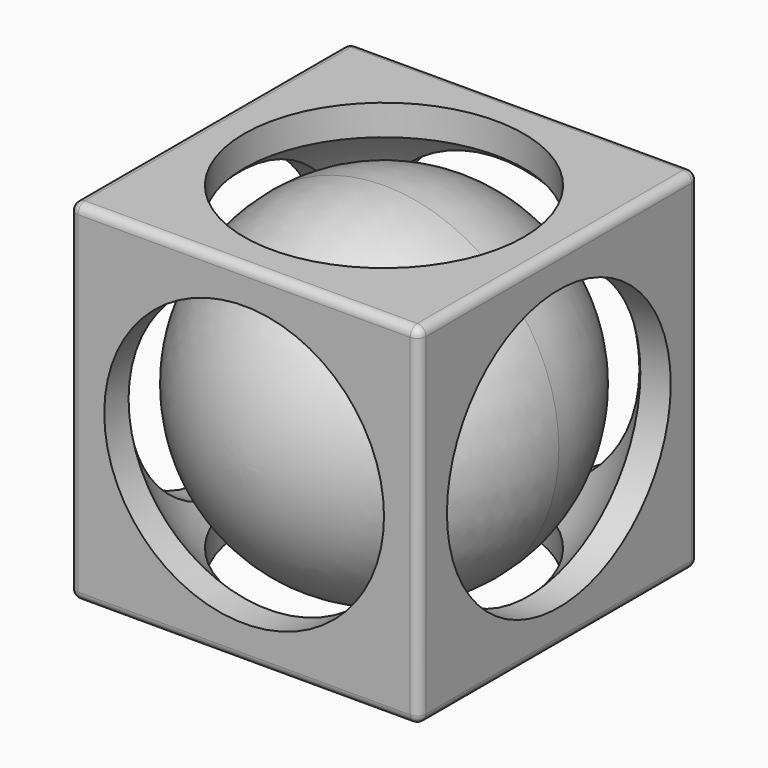
from build123d import *

# Parameters (mm, degrees)
F0_W     = 20
F0_H     = 20
F1_DEPTH = 10
F2_R     = 8
F3_DEPTH = 20.001
F4_R     = 8
F5_DEPTH = 20.001
F6_R     = 8
F7_DEPTH = 20.001
F12_R    = 0.5


with BuildPart() as f1:
    # F0 (on Top) → F1 (new body, symmetric)
    with BuildSketch(Plane.XY):
        Rectangle(F0_W, F0_H)
    extrude(amount=F1_DEPTH, both=True)

    # F2 (on face) → F3 (cut, through all)
    with BuildSketch(Plane.XY.offset(10)):
        Circle(F2_R)
    extrude(amount=-F3_DEPTH, mode=Mode.SUBTRACT)

    # F4 (on face) → F5 (cut, through all)
    with BuildSketch(Plane.XZ.offset(10)):
        Circle(F4_R)
    extrude(amount=-F5_DEPTH, mode=Mode.SUBTRACT)

    # F6 (on face) → F7 (cut, through all)
    with BuildSketch(Plane.YZ.offset(10)):
        Circle(F6_R)
    extrude(amount=-F7_DEPTH, mode=Mode.SUBTRACT)

    # F8 (on Top) → F9 (revolve, cut)
    with BuildSketch(Plane.XY):
        with BuildLine():
            Line((0, -11.5), (0, 11.5))
            ThreePointArc((0, 11.5), (-11.5, 0), (0, -11.5))
        make_face()
    revolve(axis=Axis((0, 0, 0), (0, -1, 0)), mode=Mode.SUBTRACT)

    # F12
    f12_edges = [f1.edges().sort_by_distance(p)[0] for p in [
        (0, -10, 10),
        (-10, 0, 10),
        (0, 10, 10),
        (10, 0, 10),
        (10, 10, 0),
        (10, 0, -10),
        (10, -10, 0),
        (0, -10, -10),
        (-10, -10, 0),
        (0, 10, -10),
        (-10, 10, 0),
        (-10, 0, -10),
    ]]
    fillet(f12_edges, radius=F12_R)


with BuildPart() as f11:
    # F10 (on Top) → F11 (revolve)
    with BuildSketch(Plane.XY):
        with BuildLine():
            ThreePointArc((0, -10), (7.071068, -7.071068), (10, 0))
            ThreePointArc((10, 0), (7.071068, 7.071068), (0, 10))
            Line((0, 10), (0, -10))
        make_face()
    revolve(axis=Axis((0, 0, 0), (0, -1, 0)))


solid = Compound([f1.part, f11.part])
